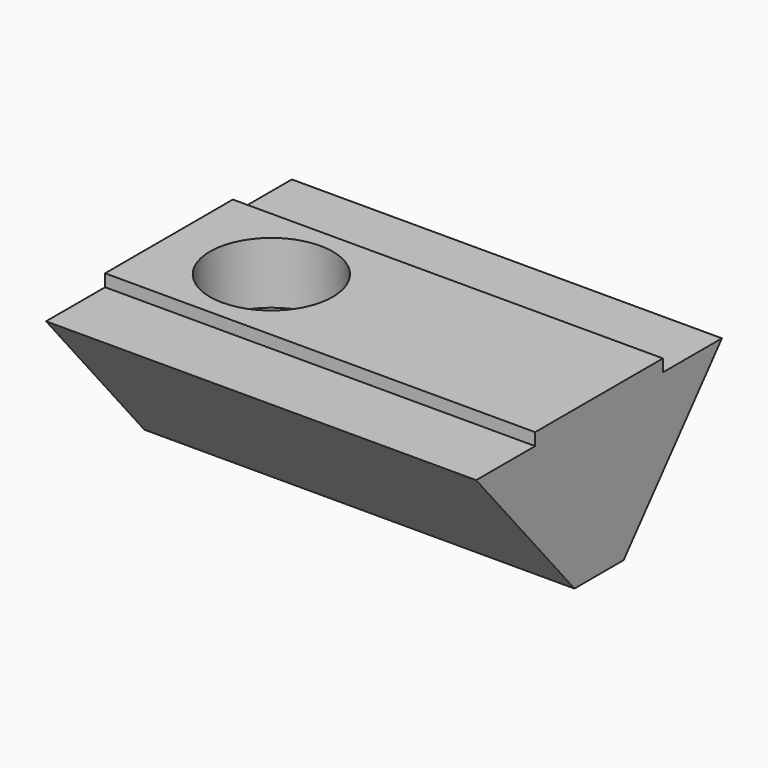
from build123d import *

# Parameters (mm, degrees)
PAD_DEPTH    = 21
SKETCH001_R  = 3
POCKET_DEPTH = 3


with BuildPart() as part:
    # Sketch → Pad (new body)
    with BuildSketch(Plane.YZ):
        Polygon((-7.5, 7.1), (-1.5, 0), (0, 0), (0, 7.7), (-3.9, 7.7), (-3.9, 7.1), align=None)
    pad = extrude(amount=PAD_DEPTH)

    # Mirrored: Pad across Sketch V_Axis
    add(pad.mirror(Plane(origin=(0, 0, 0), x_dir=(1, 0, 0), z_dir=(0, 1, 0))))

    # Sketch001 (on Face10 of Mirrored) → Pocket (cut)
    with BuildSketch(Plane(origin=(0, 0, 7.7), x_dir=(0, -1, 0), z_dir=(0, 0, 1))):
        with Locations((0, 5)):
            Circle(SKETCH001_R)
    extrude(amount=-POCKET_DEPTH, mode=Mode.SUBTRACT)


solid = part.part
